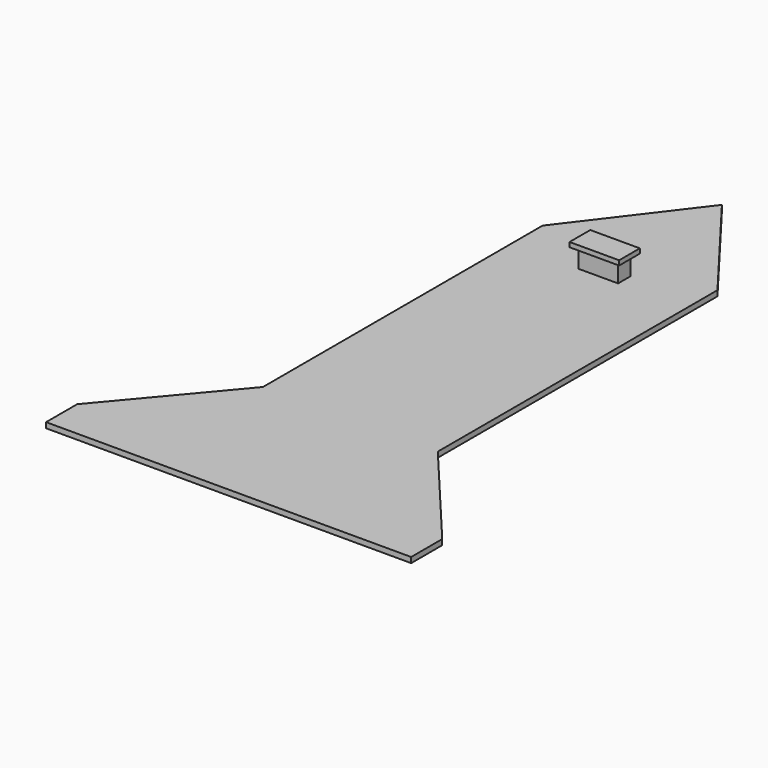
from build123d import *

# Parameters (mm, degrees)
F1_DEPTH = 1.4
F2_W     = 10.16
F2_H     = 4.064
F3_DEPTH = 5
F4_W     = 12.76
F4_H     = 6.664
F5_DEPTH = 1.2


with BuildPart() as f1:
    # F0 (on Top) → F1 (new body)
    with BuildSketch(Plane.XY):
        Polygon((-39.320156, -3.294921), (-39.320156, -13.294921), (54.679844, -13.294921), (54.679844, -3.294921), (30.189636, 25.891372), (30.189636, 115.891372), (7.679844, 145.469573), (-14.829948, 115.891372), (-14.829948, 25.891372), align=None)
        Polygon((-39.320156, -3.294921), (-39.320156, -13.294921), (54.679844, -13.294921), (54.679844, -3.294921), (30.189636, 25.891372), (30.189636, 115.891372), (7.679844, 145.469573), (-14.829948, 115.891372), (-14.829948, 25.891372), align=None)
    extrude(amount=F1_DEPTH)

    # F2 (on face) → F3 (join)
    with BuildSketch(Plane.XY.offset(1.4)):
        with Locations((7.679844, 107.740323)):
            Rectangle(F2_W, F2_H)
    extrude(amount=F3_DEPTH)

    # F4 (on face) → F5 (join)
    with BuildSketch(Plane.XY.offset(6.4)):
        with Locations((7.679844, 107.740323)):
            Rectangle(F4_W, F4_H)
    extrude(amount=F5_DEPTH)


solid = f1.part
